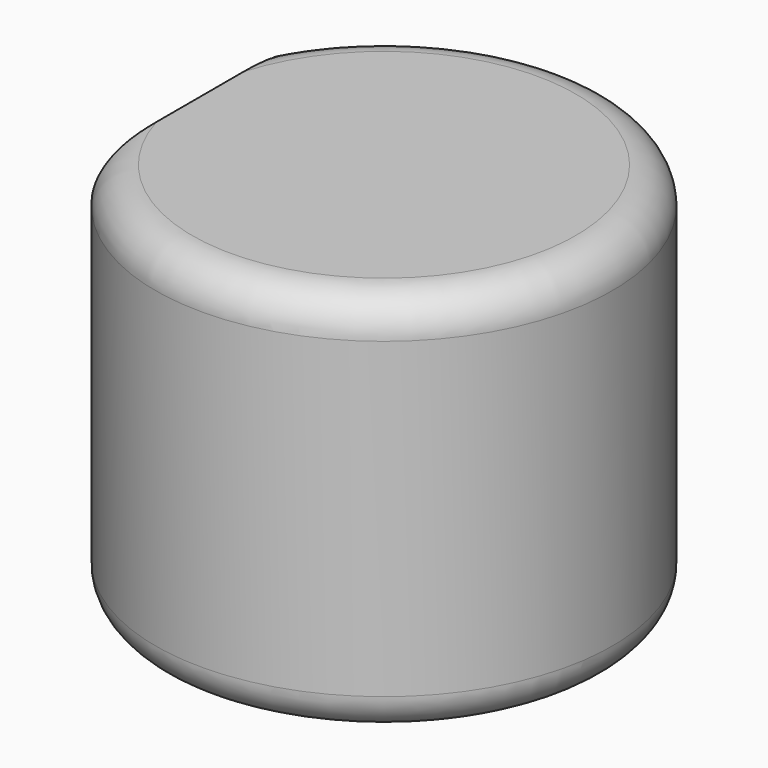
from build123d import *

# Parameters (mm, degrees)
F0_R     = 31.716166
F1_DEPTH = 53.594
F2_R     = 5.08
F3_W     = 40.479297
F3_H     = 50.922095
F4_DEPTH = 132.588


with BuildPart() as f1:
    # F0 (on Top) → F1 (new body)
    with BuildSketch(Plane.XY):
        Circle(F0_R)
    extrude(amount=F1_DEPTH)

    # F2
    f2_edges = [f1.edges().sort_by_distance(p)[0] for p in [
        (-31.716166, 0, 53.594),
        (-31.716166, 0, 0),
    ]]
    fillet(f2_edges, radius=F2_R)

    # F3 (on Top) → F4 (cut)
    with BuildSketch(Plane.XY):
        with Locations((-45.781928, -11.702132)):
            Rectangle(F3_W, F3_H)
    extrude(amount=F4_DEPTH, mode=Mode.SUBTRACT)


solid = f1.part
